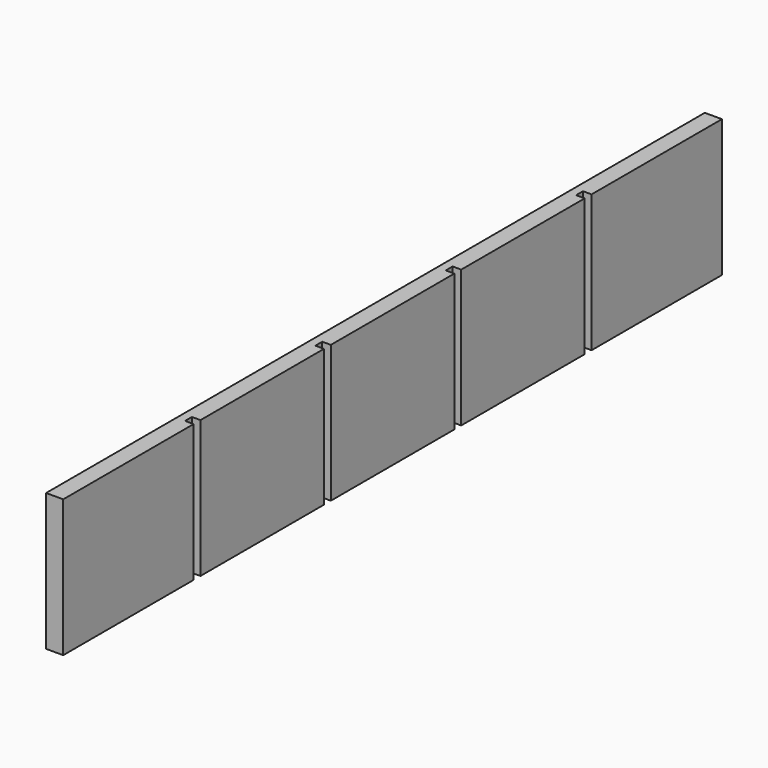
from build123d import *

# Parameters (mm, degrees)
F0_W     = 304.8
F0_H     = 50.8
F1_DEPTH = 6.35
F2_W     = 3.175
F2_H     = 50.8
F3_DEPTH = 3.175


with BuildPart() as f1:
    # F0 (on Right) → F1 (new body)
    with BuildSketch(Plane.YZ):
        with Locations((21.336002, -28.165208)):
            Rectangle(F0_W, F0_H)
    extrude(amount=F1_DEPTH)

    # F2 (on face) → F3 (cut)
    with BuildSketch(Plane.YZ.offset(6.35)):
        with Locations((-69.151498, -28.165208)):
            Rectangle(F2_W, F2_H)
        with Locations((-8.826498, -28.165208)):
            Rectangle(F2_W, F2_H)
        with Locations((51.498502, -28.165208)):
            Rectangle(F2_W, F2_H)
        with Locations((111.823502, -28.165208)):
            Rectangle(F2_W, F2_H)
    extrude(amount=-F3_DEPTH, mode=Mode.SUBTRACT)


solid = f1.part
